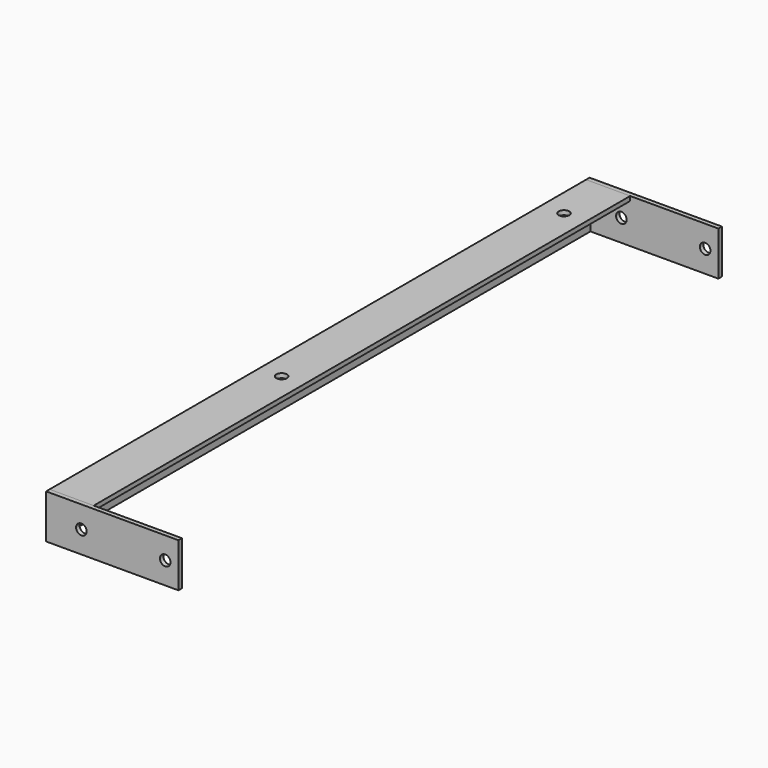
from build123d import *

# Parameters (mm, degrees)
F1_DEPTH = 380
F2_R     = 6
F3_DEPTH = 5
F5_R     = 6
F6_DEPTH = 50.001


with BuildPart() as f1:
    # F0 (on Front) → F1 (new body, symmetric)
    with BuildSketch(Plane.XZ):
        Polygon((5, -5), (50, -5), (50, 0), (0, 0), (0, -50), (5, -50), align=None)
    extrude(amount=F1_DEPTH, both=True)

    # F5 (on face) → F6 (cut, through all)
    with BuildSketch(Plane.XY):
        with Locations((25, 317.5)):
            Circle(F5_R)
        with Locations((25, -82.5)):
            Circle(F5_R)
    extrude(amount=-F6_DEPTH, mode=Mode.SUBTRACT)


with BuildPart() as f3:
    # F2 (on face) → F3 (new body)
    with BuildSketch(Plane(origin=(0, 380, 0), x_dir=(-1, 0, 0), z_dir=(0, 1, 0))):
        Polygon((-50, 0), (-150, 0), (-150, -50), (-5, -50), (-5, -5), (-50, -5), align=None)
        with Locations((-135, -25)):
            Circle(F2_R, mode=Mode.SUBTRACT)
        with Locations((-40, -25)):
            Circle(F2_R, mode=Mode.SUBTRACT)
        Polygon((0, 0), (-50, 0), (-50, -5), (-5, -5), (-5, -50), (0, -50), align=None)
        Polygon((0, 0), (-50, 0), (-50, -5), (-5, -5), (-5, -50), (0, -50), align=None)
    extrude(amount=F3_DEPTH)


with BuildPart() as f4_1:
    # F4: instance of F3
    add(f3.part.mirror(Plane.XZ))


solid = Compound([f1.part, f3.part, f4_1.part])
